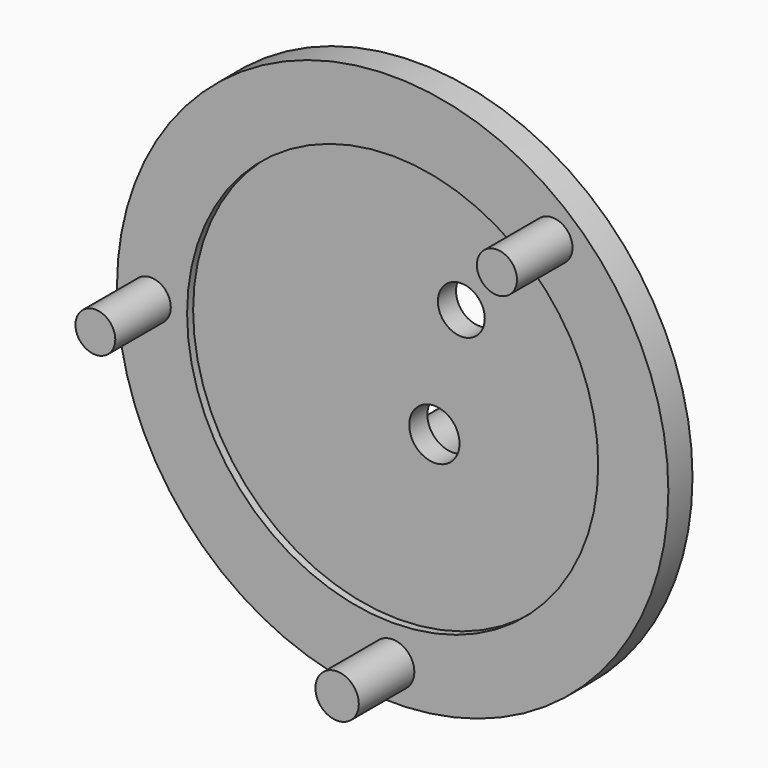
from build123d import *

# Parameters (mm, degrees)
F0_R     = 46.410682
F0_R_2   = 3.651099
F0_R_3   = 3.351621
F0_R_4   = 34.602582
F0_R_5   = 3.373279
F1_DEPTH = 5.08
F0_R_6   = 4.231249
F0_R_7   = 3.946303
F2_DEPTH = 3.81
F3_DEPTH = 16.764
F4_DEPTH = 16.764
F5_R     = 4.263251
F6_DEPTH = 22.606


with BuildPart() as f1:
    # F0 (on Front) → F1 (new body)
    with BuildSketch(Plane.XZ):
        Circle(F0_R)
        with Locations((0, -40.69474)):
            Circle(F0_R_2, mode=Mode.SUBTRACT)
        with Locations((-40.69474, 0)):
            Circle(F0_R_3, mode=Mode.SUBTRACT)
        Circle(F0_R_4, mode=Mode.SUBTRACT)
        with Locations((26.899913, 30.841293)):
            Circle(F0_R_5, mode=Mode.SUBTRACT)
    extrude(amount=F1_DEPTH)

    # F0 (on Front) → F2 (join)
    with BuildSketch(Plane.XZ):
        Circle(F0_R_4)
        with Locations((6.010604, -5.222328)):
            Circle(F0_R_6, mode=Mode.SUBTRACT)
        with Locations((10.543191, 14.681638)):
            Circle(F0_R_7, mode=Mode.SUBTRACT)
    extrude(amount=F2_DEPTH)

    # F0 (on Front) → F3 (join)
    with BuildSketch(Plane.XZ):
        with Locations((-40.69474, 0)):
            Circle(F0_R_3)
    extrude(amount=F3_DEPTH)

    # F0 (on Front) → F4 (join)
    with BuildSketch(Plane.XZ):
        with Locations((0, -40.69474)):
            Circle(F0_R_2)
        with Locations((26.899913, 30.841293)):
            Circle(F0_R_5)
    extrude(amount=F4_DEPTH)

    # F5 (on Front) → F6 (join)
    with BuildSketch(Plane.XZ):
        with Locations((-9.77318, -20.470712)):
            Circle(F5_R)
    extrude(amount=-F6_DEPTH)


solid = f1.part
